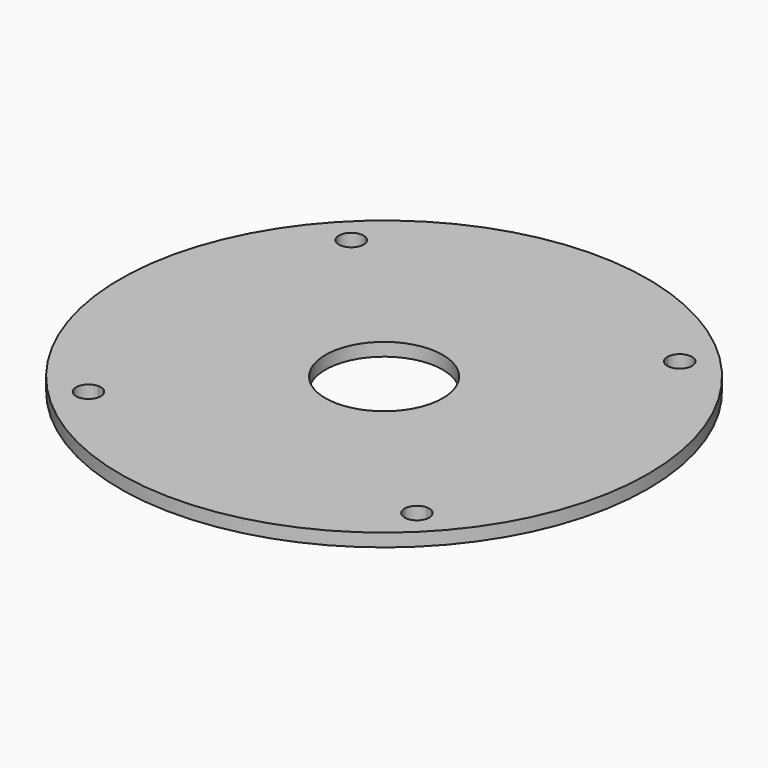
from build123d import *

# Parameters (mm, degrees)
F0_R     = 64.2875
F0_R_2   = 14.2875
F1_DEPTH = 3.175
F3_DEPTH = 25


with BuildPart() as f1:
    # F0 (on Top) → F1 (new body)
    with BuildSketch(Plane.XY):
        Circle(F0_R)
        Circle(F0_R_2, mode=Mode.SUBTRACT)
    extrude(amount=F1_DEPTH)

    # F2 (on face) → F3 (cut)
    with BuildSketch(Plane.XY.offset(3.175)):
        with BuildLine():
            ThreePointArc((-40, 37), (-37.87868, 37.87868), (-37, 40))
            Line((-37, 40), (-40, 40))
            Line((-40, 40), (-40, 37))
        make_face()
        with BuildLine():
            Line((-40, 40), (-37, 40))
            ThreePointArc((-37, 40), (-42.12132, 42.12132), (-40, 37))
            Line((-40, 37), (-40, 40))
        make_face()
        with BuildLine():
            Line((40, 40), (37, 40))
            ThreePointArc((37, 40), (37.87868, 37.87868), (40, 37))
            Line((40, 37), (40, 40))
        make_face()
        with BuildLine():
            ThreePointArc((43, 40), (40, 43), (37, 40))
            Line((37, 40), (40, 40))
            Line((40, 40), (40, 37))
            ThreePointArc((40, 37), (42.12132, 37.87868), (43, 40))
        make_face()
        with BuildLine():
            ThreePointArc((43, -40), (42.12132, -37.87868), (40, -37))
            Line((40, -37), (40, -40))
            Line((40, -40), (37, -40))
            ThreePointArc((37, -40), (40, -43), (43, -40))
        make_face()
        with BuildLine():
            Line((40, -40), (40, -37))
            ThreePointArc((40, -37), (37.87868, -37.87868), (37, -40))
            Line((37, -40), (40, -40))
        make_face()
        with BuildLine():
            Line((-40, -40), (-40, -37))
            ThreePointArc((-40, -37), (-42.12132, -42.12132), (-37, -40))
            Line((-37, -40), (-40, -40))
        make_face()
        with BuildLine():
            ThreePointArc((-37, -40), (-37.87868, -37.87868), (-40, -37))
            Line((-40, -37), (-40, -40))
            Line((-40, -40), (-37, -40))
        make_face()
    extrude(amount=-F3_DEPTH, mode=Mode.SUBTRACT)


solid = f1.part
